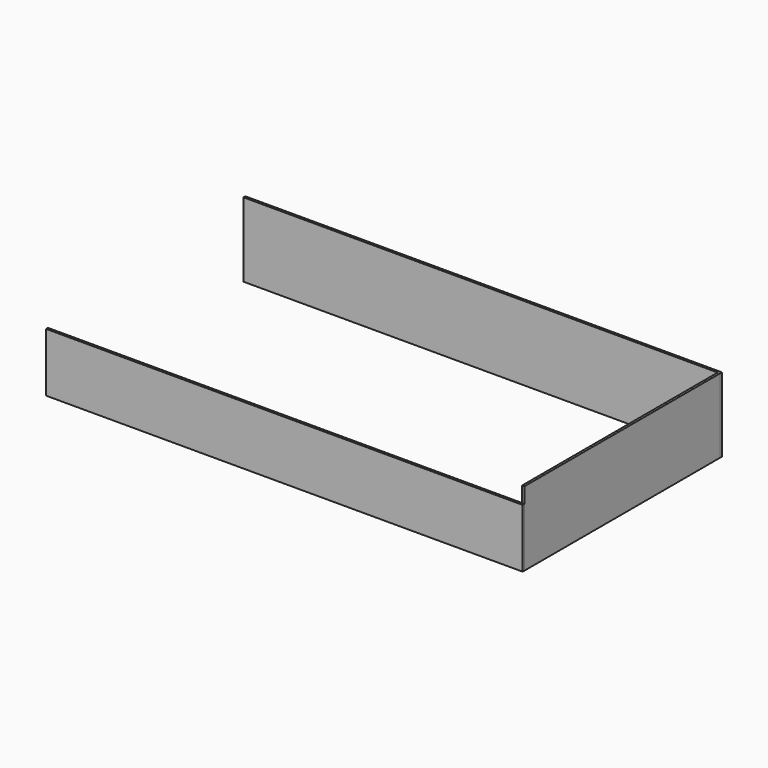
from build123d import *

# Parameters (mm, degrees)
F1_DEPTH = 9.525
F3_W     = 1955.8
F3_H     = 241.3
F4_DEPTH = 9.525
F6_W     = 1003.3
F6_H     = 304.8
F7_DEPTH = 9.525


with BuildPart() as f1:
    # F0 (on Front) → F1 (new body)
    with BuildSketch(Plane.XZ):
        Polygon((-977.9, 304.8), (-977.9, 0), (0, 0), (977.9, 0), (977.9, 304.8), align=None)
    extrude(amount=-F1_DEPTH)


with BuildPart() as f4:
    # F3 (on offset) → F4 (new body)
    with BuildSketch(Plane.XZ.offset(1003.3)):
        with Locations((0, 120.65)):
            Rectangle(F3_W, F3_H)
    extrude(amount=F4_DEPTH)


with BuildPart() as f7:
    # F6 (on 3pt) → F7 (new body)
    with BuildSketch(Plane.YZ.offset(977.9)):
        with Locations((-501.65, 152.4)):
            Rectangle(F6_W, F6_H)
    extrude(amount=-F7_DEPTH)


solid = Compound([f1.part, f4.part, f7.part])
